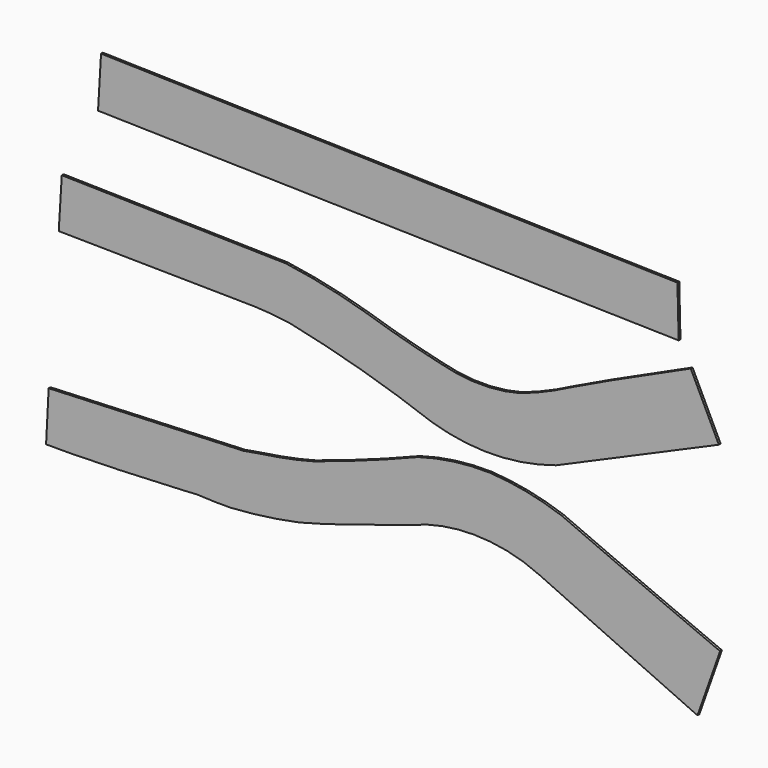
from build123d import *

# Parameters (mm, degrees)
F1_DEPTH = 3.175


with BuildPart() as f1:
    # F0 (on Front) → F1 (new body)
    with BuildSketch(Plane.XZ):
        with BuildLine():
            Line((-5.746896, 34.800602), (-9.984557, -35.226094))
            Line((-9.984557, -35.226094), (263.638318, -38.967457))
            Line((263.638318, -38.967457), (284.91798, -40.264998))
            Line((284.91798, -40.264998), (312.944859, -43.552101))
            ThreePointArc((312.944859, -43.552101), (413.418726, -68.524106), (511.784196, -100.817032))
            ThreePointArc((511.784196, -100.817032), (560.017685, -110.752988), (609.249055, -111.963287))
            ThreePointArc((609.249055, -111.963287), (647.301423, -106.947474), (684.42142, -97.188026))
            Line((684.42142, -97.188026), (911.41957, 1.904502))
            Line((911.41957, 1.904502), (872.213781, 82.818702))
            Line((872.213781, 82.818702), (760.75834, 31.928085))
            Line((760.75834, 31.928085), (705.059409, 5.373876))
            ThreePointArc((705.059409, 5.373876), (670.399799, -11.148613), (634.536982, -24.865009))
            ThreePointArc((634.536982, -24.865009), (579.192281, -32.078405), (523.84758, -24.865009))
            ThreePointArc((523.84758, -24.865009), (472.186521, -11.870758), (421.120077, 3.292817))
            ThreePointArc((421.120077, 3.292817), (364.610708, 17.970702), (307.120442, 28.150018))
            Line((307.120442, 28.150018), (-5.746896, 34.800602))
        make_face()
        with BuildLine():
            Line((247.604832, -221.405536), (-24.057951, -232.918009))
            Line((-24.057951, -232.918009), (-27.651556, -302.996129))
            Line((-27.651556, -302.996129), (5.265823, -302.996129))
            Line((5.265823, -302.996129), (74.346639, -301.249832))
            Line((74.346639, -301.249832), (163.775861, -297.232002))
            Line((163.775861, -297.232002), (182.698563, -296.065539))
            Line((182.698563, -296.065539), (208.620071, -297.102392))
            Line((208.620071, -297.102392), (230.134934, -297.102392))
            ThreePointArc((230.134934, -297.102392), (278.38156, -292.320133), (326.149553, -284.024))
            ThreePointArc((326.149553, -284.024), (373.646737, -270.750267), (420.633465, -255.769551))
            ThreePointArc((420.633465, -255.769551), (462.508245, -242.990308), (503.908098, -228.747472))
            ThreePointArc((503.908098, -228.747472), (547.502133, -220.618861), (591.846466, -220.926061))
            ThreePointArc((591.846466, -220.926061), (627.733988, -227.403686), (661.975384, -239.949629))
            ThreePointArc((661.975384, -239.949629), (771.748105, -290.303814), (881.642103, -340.392768))
            Line((881.642103, -340.392768), (913.20926, -251.275569))
            ThreePointArc((913.20926, -251.275569), (802.46212, -204.33442), (692.067802, -156.569421))
            ThreePointArc((692.067802, -156.569421), (642.66923, -142.970842), (591.846466, -136.475697))
            ThreePointArc((591.846466, -136.475697), (541.236249, -139.212066), (491.658181, -149.742827))
            ThreePointArc((491.658181, -149.742827), (419.430075, -177.365395), (346.242219, -202.33424))
            Line((346.242219, -202.33424), (323.512197, -208.014786))
            Line((323.512197, -208.014786), (298.658282, -212.958112))
            Line((298.658282, -212.958112), (268.03717, -217.901424))
            Line((268.03717, -217.901424), (247.604832, -221.405536))
        make_face()
        Polygon((853.651226, 182.281286), (49.056437, 202.04623), (44.872642, 130.598128), (855.353534, 111.844338), align=None)
    extrude(amount=F1_DEPTH)


solid = f1.part
